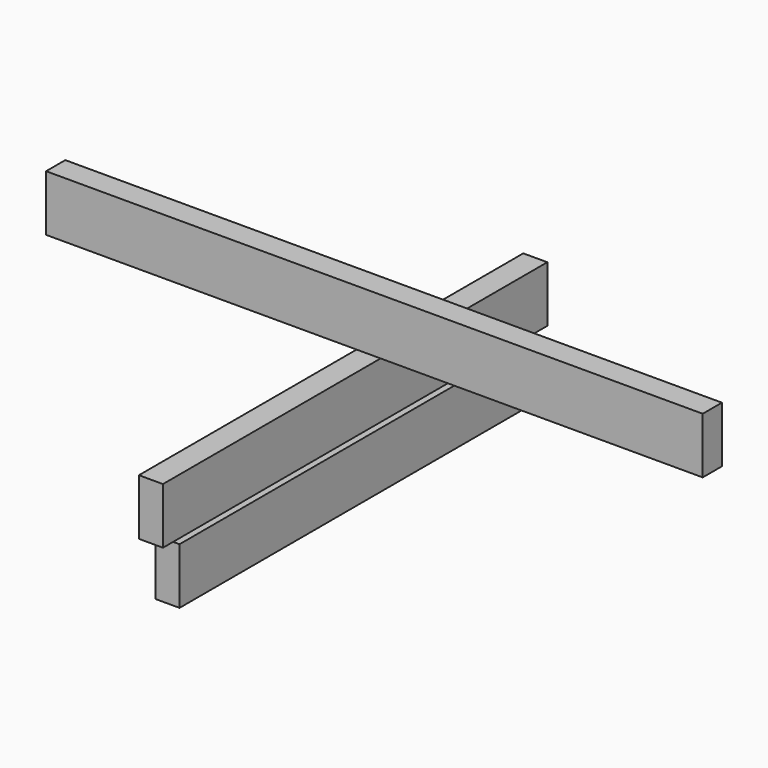
from build123d import *

# Parameters (mm, degrees)
F0_W     = 1041.4
F0_H     = 88.9
F1_DEPTH = 38.1
F2_W     = 762
F2_H     = 88.9
F3_DEPTH = 38.1
F4_W     = 685.8
F4_H     = 88.9
F5_DEPTH = 38.1


with BuildPart() as f1:
    # F0 (on Front) → F1 (new body)
    with BuildSketch(Plane.XZ):
        with Locations((76.190971, 24.785625)):
            Rectangle(F0_W, F0_H)
    extrude(amount=F1_DEPTH)


with BuildPart() as f3:
    # F2 (on Right) → F3 (new body)
    with BuildSketch(Plane.YZ):
        with Locations((-28.683186, -104.066158)):
            Rectangle(F2_W, F2_H)
    extrude(amount=F3_DEPTH)


with BuildPart() as f5:
    # F4 (on Right) → F5 (new body)
    with BuildSketch(Plane.YZ):
        with Locations((-33.907279, -201.427261)):
            Rectangle(F4_W, F4_H)
    extrude(amount=F5_DEPTH)


solid = Compound([f1.part, f3.part, f5.part])
